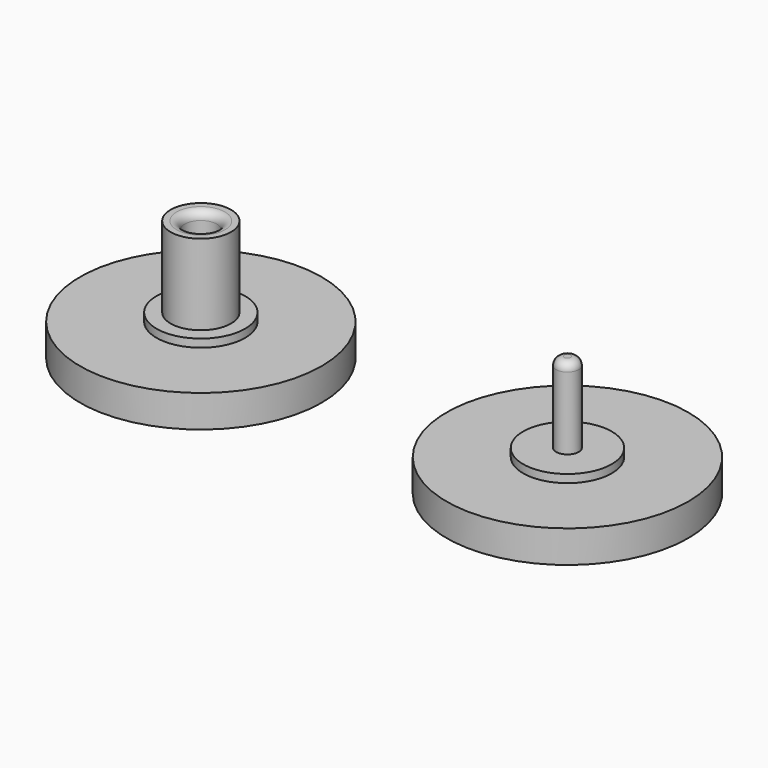
from build123d import *

# Parameters (mm, degrees)
F0_R      = 7.5
F1_DEPTH  = 2
F2_R      = 1.875
F3_DEPTH  = 5.5
F4_R      = 1
F5_DEPTH  = 5
F6_R      = 0.7
F7_DEPTH  = 5.5
F8_R      = 0.5
F8_2_R    = 0.5
F15_R     = 2.75
F15_R_2   = 1.875
F16_DEPTH = 0.5


with BuildPart() as f1:
    # F0 (on Top) → F1 (new body)
    with BuildSketch(Plane.XY):
        Circle(F0_R)
    extrude(amount=-F1_DEPTH)

    # F2 (on Top) → F3 (join)
    with BuildSketch(Plane.XY):
        Circle(F2_R)
    extrude(amount=F3_DEPTH)

    # F4 (on face) → F5 (cut)
    with BuildSketch(Plane.XY.offset(5.5)):
        Circle(F4_R)
    extrude(amount=-F5_DEPTH, mode=Mode.SUBTRACT)

    # F8#2
    f8_2_edges = [f1.edges().sort_by_distance(p)[0] for p in [
        (-1, 0, 5.5),
    ]]
    fillet(f8_2_edges, radius=F8_2_R)

    # F11 (on offset) → F12 (revolve, cut)
    with BuildSketch(Plane.XY.offset(-25)):
        with BuildLine():
            Line((0, 23), (0, -23))
            ThreePointArc((0, -23), (23, 0), (0, 23))
        make_face()
    revolve(axis=Axis((0, -3.1805001199, -25), (0, 1, 0)), mode=Mode.SUBTRACT)

    # F13 (on offset) → F14 (revolve, cut)
    with BuildSketch(Plane.XY.offset(-25)):
        with BuildLine():
            Line((22.7556936443, 23), (22.7556936443, -23))
            ThreePointArc((22.7556936443, -23), (45.7556936443, 0), (22.7556936443, 23))
        make_face()
    revolve(axis=Axis((22.7556936443, 0, -25), (0, 1, 0)), mode=Mode.SUBTRACT)


with BuildPart() as f1b:
    # F0 (on Top) → F1, piece 2 (new body)
    with BuildSketch(Plane.XY):
        with Locations((22.7556936443, 0)):
            Circle(F0_R)
    extrude(amount=-F1_DEPTH)

    # F6 (on face) → F7 (join)
    with BuildSketch(Plane.XY):
        with Locations((22.7556936443, 0)):
            Circle(F6_R)
    extrude(amount=F7_DEPTH)

    # F8
    f8_edges = [f1b.edges().sort_by_distance(p)[0] for p in [
        (22.055694, 0, 5.5),
    ]]
    fillet(f8_edges, radius=F8_R)


with BuildPart() as f16:
    # F15 (on face) → F16 (new body)
    with BuildSketch(Plane.XY):
        Circle(F15_R)
        Circle(F15_R_2, mode=Mode.SUBTRACT)
    extrude(amount=F16_DEPTH)


with BuildPart() as f16b:
    # F15 (on face) → F16, piece 2 (new body)
    with BuildSketch(Plane.XY):
        with Locations((22.757390514, 0)):
            Circle(F15_R)
    extrude(amount=F16_DEPTH)


solid = Compound([f1.part, f1b.part, f16.part, f16b.part])
